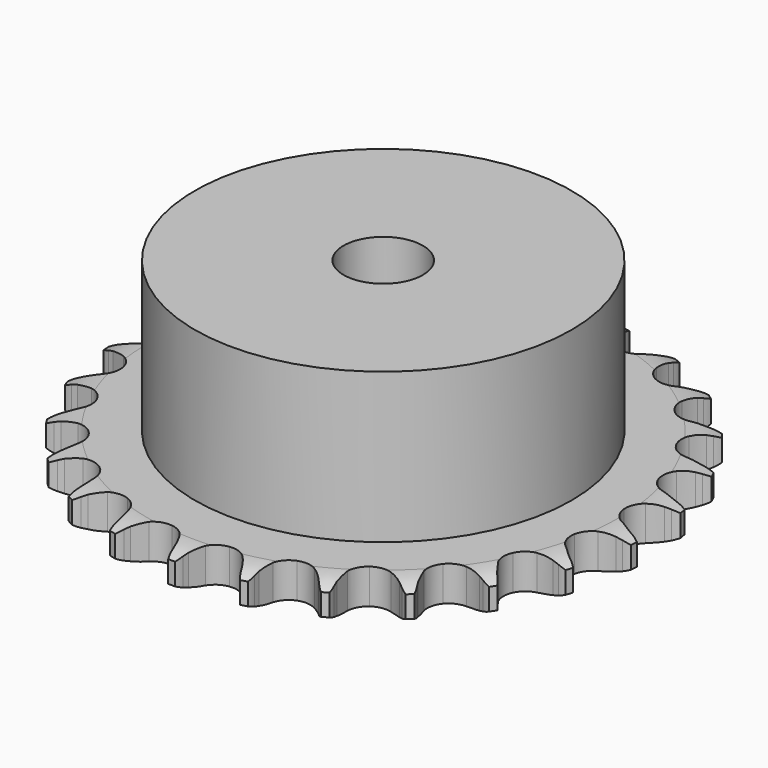
from build123d import *

# Parameters (mm, degrees)
PAD_DEPTH         = 5.3
SKETCH001_R       = 28.5
PAD001_DEPTH      = 28
SKETCH002_R       = 6
POCKET_DEPTH      = 0.001
POCKET_DEPTH_BACK = -28.001


with BuildPart() as part:
    # Sprocket → Pad (new body)
    with BuildSketch(Plane.XY):
        with BuildLine():
            ThreePointArc((-5.119133, 40.522108), (-4.471486, 39.716317), (-3.996424, 38.798134))
            Line((-3.996424, 38.798134), (-3.687726, 38.020039))
            ThreePointArc((-3.687726, 38.020039), (-3.194709, 36.990111), (-2.565145, 36.037499))
            ThreePointArc((-2.565145, 36.037499), (-1.430666, 35.103968), (0, 34.769725))
            ThreePointArc((0, 34.769725), (1.430666, 35.103968), (2.565145, 36.037499))
            ThreePointArc((2.565145, 36.037499), (3.194709, 36.990111), (3.687726, 38.020039))
            Line((3.687726, 38.020039), (3.996424, 38.798134))
            ThreePointArc((3.996424, 38.798134), (4.471486, 39.716317), (5.119133, 40.522108))
            ThreePointArc((5.119133, 40.522108), (5.54604, 39.58057), (5.777835, 38.573089))
            Line((5.777835, 38.573089), (5.88333, 37.74267))
            ThreePointArc((5.88333, 37.74267), (6.104725, 36.62249), (6.477605, 35.54324))
            ThreePointArc((6.477605, 35.54324), (7.344283, 34.356905), (8.646879, 33.677371))
            ThreePointArc((8.646879, 33.677371), (10.115721, 33.64532), (11.446718, 34.267389))
            Line((11.446718, 34.267389), (13.027069, 35.90847))
            ThreePointArc((13.027069, 35.90847), (13.264791, 36.253115), (13.519572, 36.585349))
            ThreePointArc((13.519572, 36.585349), (14.208053, 37.356543), (15.035744, 37.975955))
            ThreePointArc((15.035744, 37.975955), (15.215089, 36.957829), (15.18905, 35.924355))
            Line((15.18905, 35.924355), (15.084715, 35.09379))
            ThreePointArc((15.084715, 35.09379), (15.020577, 33.953744), (15.113344, 32.815669))
            ThreePointArc((15.113344, 32.815669), (15.657764, 31.45107), (16.750443, 30.468943))
            ThreePointArc((16.750443, 30.468943), (18.165168, 30.072613), (19.609051, 30.344133))
            Line((19.609051, 30.344133), (21.547873, 31.540639))
            ThreePointArc((21.547873, 31.540639), (21.863836, 31.815338), (22.193236, 32.073772))
            ThreePointArc((22.193236, 32.073772), (23.051875, 32.649519), (24.007605, 33.043633))
            ThreePointArc((24.007605, 33.043633), (23.928117, 32.012892), (23.645882, 31.018363))
            Line((23.645882, 31.018363), (23.338271, 30.239838))
            ThreePointArc((23.338271, 30.239838), (22.992631, 29.151559), (22.799455, 28.026169))
            ThreePointArc((22.799455, 28.026169), (22.987409, 26.56905), (23.801515, 25.346039))
            ThreePointArc((23.801515, 25.346039), (25.07323, 24.610333), (26.539276, 24.514244))
            Line((26.539276, 24.514244), (28.714744, 25.190994))
            ThreePointArc((28.714744, 25.190994), (29.089096, 25.378485), (29.472418, 25.546882))
            ThreePointArc((29.472418, 25.546882), (30.447263, 25.891007), (31.470979, 26.035058))
            ThreePointArc((31.470979, 26.035058), (31.137654, 25.056468), (30.616957, 24.163372))
            Line((30.616957, 24.163372), (30.125399, 23.485806))
            ThreePointArc((30.125399, 23.485806), (29.519973, 22.517674), (29.052993, 21.475681))
            ThreePointArc((29.052993, 21.475681), (28.872672, 20.017598), (29.35705, 18.630551))
            ThreePointArc((29.35705, 18.630551), (30.40585, 17.601696), (31.80194, 17.144034))
            Line((31.80194, 17.144034), (34.077363, 17.258506))
            ThreePointArc((34.077363, 17.258506), (34.486582, 17.347009), (34.899739, 17.414787))
            ThreePointArc((34.899739, 17.414787), (35.929538, 17.505666), (36.956916, 17.390605))
            ThreePointArc((36.956916, 17.390605), (36.390697, 16.525653), (35.664255, 15.790108))
            Line((35.664255, 15.790108), (35.019636, 15.256074))
            ThreePointArc((35.019636, 15.256074), (34.192466, 14.468921), (33.481025, 13.575797))
            ThreePointArc((33.481025, 13.575797), (32.943758, 12.208367), (33.067974, 10.744436))
            ThreePointArc((33.067974, 10.744436), (33.827958, 9.487079), (35.066372, 8.696602))
            Line((35.066372, 8.696602), (37.298776, 8.241602))
            ThreePointArc((37.298776, 8.241602), (37.717148, 8.225557), (38.134181, 8.188458))
            ThreePointArc((38.134181, 8.188458), (39.154228, 8.020381), (40.120714, 7.653436))
            ThreePointArc((40.120714, 7.653436), (39.357179, 6.956471), (38.470637, 6.424693))
            Line((38.470637, 6.424693), (37.713461, 6.067747))
            ThreePointArc((37.713461, 6.067747), (36.716522, 5.511033), (35.805321, 4.822897))
            ThreePointArc((35.805321, 4.822897), (34.944866, 3.632039), (34.701115, 2.183209))
            ThreePointArc((34.701115, 2.183209), (35.124531, 0.776354), (36.127454, -0.29727))
            Line((36.127454, -0.29727), (38.17657, -1.293151))
            ThreePointArc((38.17657, -1.293151), (38.577807, -1.412737), (38.972512, -1.552383))
            ThreePointArc((38.972512, -1.552383), (39.918713, -1.968854), (40.76358, -2.564627))
            ThreePointArc((40.76358, -2.564627), (39.850705, -3.049812), (38.859767, -3.344409))
            Line((38.859767, -3.344409), (38.037611, -3.501839))
            ThreePointArc((38.037611, -3.501839), (36.933543, -3.793134), (35.879836, -4.233045))
            ThreePointArc((35.879836, -4.233045), (34.75026, -5.172503), (34.153858, -6.515197))
            ThreePointArc((34.153858, -6.515197), (34.2141, -7.983152), (34.918516, -9.272463))
            Line((34.918516, -9.272463), (36.655589, -10.746651))
            ThreePointArc((36.655589, -10.746651), (37.014481, -10.962264), (37.362057, -11.195681))
            ThreePointArc((37.362057, -11.195681), (38.174959, -11.83438), (38.845121, -12.621545))
            ThreePointArc((38.845121, -12.621545), (37.840265, -12.864464), (36.807195, -12.903369))
            Line((36.807195, -12.903369), (35.971718, -12.851391))
            ThreePointArc((35.971718, -12.851391), (34.829894, -12.858964), (33.69989, -13.023008))
            ThreePointArc((33.69989, -13.023008), (32.372168, -13.652038), (31.460588, -14.804229))
            ThreePointArc((31.460588, -14.804229), (31.153872, -16.241048), (31.515518, -17.665033))
            Line((31.515518, -17.665033), (32.831403, -19.5249))
            ThreePointArc((32.831403, -19.5249), (33.125399, -19.822991), (33.404006, -20.135514))
            ThreePointArc((33.404006, -20.135514), (34.032532, -20.956307), (34.485879, -21.885404))
            ThreePointArc((34.485879, -21.885404), (33.452181, -21.870794), (32.441892, -21.651564))
            Line((32.441892, -21.651564), (31.645589, -21.393443))
            ThreePointArc((31.645589, -21.393443), (30.537754, -21.116818), (29.402455, -20.994688))
            ThreePointArc((29.402455, -20.994688), (27.960013, -21.273765), (26.790534, -22.163057))
            ThreePointArc((26.790534, -22.163057), (26.136132, -23.478458), (26.132285, -24.947645))
            Line((26.132285, -24.947645), (26.944299, -27.076327))
            ThreePointArc((26.944299, -27.076327), (27.154926, -27.438167), (27.347059, -27.810159))
            ThreePointArc((27.347059, -27.810159), (27.751716, -28.761473), (27.959763, -29.774124))
            ThreePointArc((27.959763, -29.774124), (26.962174, -29.502902), (26.038146, -29.03931))
            Line((26.038146, -29.03931), (25.331051, -28.591267))
            ThreePointArc((25.331051, -28.591267), (24.326815, -28.047825), (23.257556, -27.647195))
            ThreePointArc((23.257556, -27.647195), (21.791028, -27.558783), (20.437132, -28.129299))
            ThreePointArc((20.437132, -28.129299), (19.476162, -29.240631), (19.107065, -30.662704))
            Line((19.107065, -30.662704), (19.364185, -32.926449))
            ThreePointArc((19.364185, -32.926449), (19.478209, -33.329303), (19.571796, -33.737388))
            ThreePointArc((19.571796, -33.737388), (19.727157, -34.759449), (19.676832, -35.792025))
            ThreePointArc((19.676832, -35.792025), (18.778034, -35.281234), (17.998326, -34.602411))
            Line((17.998326, -34.602411), (17.424871, -33.992596))
            ThreePointArc((17.424871, -33.992596), (16.587333, -33.216484), (15.6513, -32.562526))
            ThreePointArc((15.6513, -32.562526), (14.252832, -32.112181), (12.79959, -32.328073))
            ThreePointArc((12.79959, -32.328073), (11.592433, -33.165507), (10.881277, -34.451112))
            Line((10.881277, -34.451112), (10.567349, -36.707681))
            ThreePointArc((10.567349, -36.707681), (10.577605, -37.126235), (10.566765, -37.544774))
            ThreePointArc((10.566765, -37.544774), (10.463069, -38.573362), (10.157534, -39.560982))
            ThreePointArc((10.157534, -39.560982), (9.414002, -38.842717), (8.827606, -37.991314))
            Line((8.827606, -37.991314), (8.423822, -37.258045))
            ThreePointArc((8.423822, -37.258045), (7.805608, -36.298029), (7.061614, -35.431835))
            ThreePointArc((7.061614, -35.431835), (5.819078, -34.647853), (4.357802, -34.495556))
            ThreePointArc((4.357802, -34.495556), (2.980309, -35.006473), (1.971778, -36.074831))
            Line((1.971778, -36.074831), (1.106527, -38.182435))
            ThreePointArc((1.106527, -38.182435), (1.012371, -38.590389), (0.897785, -38.993083))
            ThreePointArc((0.897785, -38.993083), (0.541547, -39.963568), (0, -40.844177))
            ThreePointArc((0, -40.844177), (-0.541547, -39.963568), (-0.897785, -38.993083))
            Line((-0.897785, -38.993083), (-1.106527, -38.182435))
            ThreePointArc((-1.106527, -38.182435), (-1.466573, -37.098836), (-1.971778, -36.074831))
            ThreePointArc((-1.971778, -36.074831), (-2.980309, -35.006473), (-4.357802, -34.495556))
            ThreePointArc((-4.357802, -34.495556), (-5.819078, -34.647853), (-7.061614, -35.431835))
            Line((-7.061614, -35.431835), (-8.423822, -37.258045))
            ThreePointArc((-8.423822, -37.258045), (-8.616474, -37.629768), (-8.827606, -37.991314))
            ThreePointArc((-8.827606, -37.991314), (-9.414002, -38.842717), (-10.157534, -39.560982))
            ThreePointArc((-10.157534, -39.560982), (-10.463069, -38.573362), (-10.566765, -37.544774))
            Line((-10.566765, -37.544774), (-10.567349, -36.707681))
            ThreePointArc((-10.567349, -36.707681), (-10.646603, -35.568586), (-10.881277, -34.451112))
            ThreePointArc((-10.881277, -34.451112), (-11.592433, -33.165507), (-12.79959, -32.328073))
            ThreePointArc((-12.79959, -32.328073), (-14.252832, -32.112181), (-15.6513, -32.562526))
            Line((-15.6513, -32.562526), (-17.424871, -33.992596))
            ThreePointArc((-17.424871, -33.992596), (-17.703914, -34.30473), (-17.998326, -34.602411))
            ThreePointArc((-17.998326, -34.602411), (-18.778034, -35.281234), (-19.676832, -35.792025))
            ThreePointArc((-19.676832, -35.792025), (-19.727157, -34.759449), (-19.571796, -33.737388))
            Line((-19.571796, -33.737388), (-19.364185, -32.926449))
            ThreePointArc((-19.364185, -32.926449), (-19.157668, -31.803431), (-19.107065, -30.662704))
            ThreePointArc((-19.107065, -30.662704), (-19.476162, -29.240631), (-20.437132, -28.129299))
            ThreePointArc((-20.437132, -28.129299), (-21.791028, -27.558783), (-23.257556, -27.647195))
            Line((-23.257556, -27.647195), (-25.331051, -28.591267))
            ThreePointArc((-25.331051, -28.591267), (-25.678953, -28.824199), (-26.038146, -29.03931))
            ThreePointArc((-26.038146, -29.03931), (-26.962174, -29.502902), (-27.959763, -29.774124))
            ThreePointArc((-27.959763, -29.774124), (-27.751716, -28.761473), (-27.347059, -27.810159))
            Line((-27.347059, -27.810159), (-26.944299, -27.076327))
            ThreePointArc((-26.944299, -27.076327), (-26.464986, -26.039949), (-26.132285, -24.947645))
            ThreePointArc((-26.132285, -24.947645), (-26.136132, -23.478458), (-26.790534, -22.163057))
            ThreePointArc((-26.790534, -22.163057), (-27.960013, -21.273765), (-29.402455, -20.994688))
            Line((-29.402455, -20.994688), (-31.645589, -21.393443))
            ThreePointArc((-31.645589, -21.393443), (-32.040488, -21.532538), (-32.441892, -21.651564))
            ThreePointArc((-32.441892, -21.651564), (-33.452181, -21.870794), (-34.485879, -21.885404))
            ThreePointArc((-34.485879, -21.885404), (-34.032532, -20.956307), (-33.404006, -20.135514))
            Line((-33.404006, -20.135514), (-32.831403, -19.5249))
            ThreePointArc((-32.831403, -19.5249), (-32.109412, -18.640282), (-31.515518, -17.665033))
            ThreePointArc((-31.515518, -17.665033), (-31.153872, -16.241048), (-31.460588, -14.804229))
            ThreePointArc((-31.460588, -14.804229), (-32.372168, -13.652038), (-33.69989, -13.023008))
            Line((-33.69989, -13.023008), (-35.971718, -12.851391))
            ThreePointArc((-35.971718, -12.851391), (-36.388801, -12.887908), (-36.807195, -12.903369))
            ThreePointArc((-36.807195, -12.903369), (-37.840265, -12.864464), (-38.845121, -12.621545))
            ThreePointArc((-38.845121, -12.621545), (-38.174959, -11.83438), (-37.362057, -11.195681))
            Line((-37.362057, -11.195681), (-36.655589, -10.746651))
            ThreePointArc((-36.655589, -10.746651), (-35.736285, -10.069377), (-34.918516, -9.272463))
            ThreePointArc((-34.918516, -9.272463), (-34.2141, -7.983152), (-34.153858, -6.515197))
            ThreePointArc((-34.153858, -6.515197), (-34.75026, -5.172503), (-35.879836, -4.233045))
            Line((-35.879836, -4.233045), (-38.037611, -3.501839))
            ThreePointArc((-38.037611, -3.501839), (-38.450673, -3.433484), (-38.859767, -3.344409))
            ThreePointArc((-38.859767, -3.344409), (-39.850705, -3.049812), (-40.76358, -2.564627))
            ThreePointArc((-40.76358, -2.564627), (-39.918713, -1.968854), (-38.972512, -1.552383))
            Line((-38.972512, -1.552383), (-38.17657, -1.293151))
            ThreePointArc((-38.17657, -1.293151), (-37.117716, -0.865777), (-36.127454, -0.29727))
            ThreePointArc((-36.127454, -0.29727), (-35.124531, 0.776354), (-34.701115, 2.183209))
            ThreePointArc((-34.701115, 2.183209), (-34.944866, 3.632039), (-35.805321, 4.822897))
            Line((-35.805321, 4.822897), (-37.713461, 6.067747))
            ThreePointArc((-37.713461, 6.067747), (-38.096547, 6.236679), (-38.470637, 6.424693))
            ThreePointArc((-38.470637, 6.424693), (-39.357179, 6.956471), (-40.120714, 7.653436))
            ThreePointArc((-40.120714, 7.653436), (-39.154228, 8.020381), (-38.134181, 8.188458))
            Line((-38.134181, 8.188458), (-37.298776, 8.241602))
            ThreePointArc((-37.298776, 8.241602), (-36.166905, 8.392224), (-35.066372, 8.696602))
            ThreePointArc((-35.066372, 8.696602), (-33.827958, 9.487079), (-33.067974, 10.744436))
            ThreePointArc((-33.067974, 10.744436), (-32.943758, 12.208367), (-33.481025, 13.575797))
            Line((-33.481025, 13.575797), (-35.019636, 15.256074))
            ThreePointArc((-35.019636, 15.256074), (-35.348675, 15.514968), (-35.664255, 15.790108))
            ThreePointArc((-35.664255, 15.790108), (-36.390697, 16.525653), (-36.956916, 17.390605))
            ThreePointArc((-36.956916, 17.390605), (-35.929538, 17.505666), (-34.899739, 17.414787))
            Line((-34.899739, 17.414787), (-34.077363, 17.258506))
            ThreePointArc((-34.077363, 17.258506), (-32.943594, 17.122911), (-31.80194, 17.144034))
            ThreePointArc((-31.80194, 17.144034), (-30.40585, 17.601696), (-29.35705, 18.630551))
            ThreePointArc((-29.35705, 18.630551), (-28.872672, 20.017598), (-29.052993, 21.475681))
            Line((-29.052993, 21.475681), (-30.125399, 23.485806))
            ThreePointArc((-30.125399, 23.485806), (-30.379716, 23.818395), (-30.616957, 24.163372))
            ThreePointArc((-30.616957, 24.163372), (-31.137654, 25.056468), (-31.470979, 26.035058))
            ThreePointArc((-31.470979, 26.035058), (-30.447263, 25.891007), (-29.472418, 25.546882))
            Line((-29.472418, 25.546882), (-28.714744, 25.190994))
            ThreePointArc((-28.714744, 25.190994), (-27.650316, 24.777701), (-26.539276, 24.514244))
            ThreePointArc((-26.539276, 24.514244), (-25.07323, 24.610333), (-23.801515, 25.346039))
            ThreePointArc((-23.801515, 25.346039), (-22.987409, 26.56905), (-22.799455, 28.026169))
            Line((-22.799455, 28.026169), (-23.338271, 30.239838))
            ThreePointArc((-23.338271, 30.239838), (-23.501887, 30.625224), (-23.645882, 31.018363))
            ThreePointArc((-23.645882, 31.018363), (-23.928117, 32.012892), (-24.007605, 33.043633))
            ThreePointArc((-24.007605, 33.043633), (-23.051875, 32.649519), (-22.193236, 32.073772))
            Line((-22.193236, 32.073772), (-21.547873, 31.540639))
            ThreePointArc((-21.547873, 31.540639), (-20.619666, 30.875618), (-19.609051, 30.344133))
            ThreePointArc((-19.609051, 30.344133), (-18.165168, 30.072613), (-16.750443, 30.468943))
            ThreePointArc((-16.750443, 30.468943), (-15.657764, 31.45107), (-15.113344, 32.815669))
            Line((-15.113344, 32.815669), (-15.084715, 35.09379))
            ThreePointArc((-15.084715, 35.09379), (-15.147349, 35.507758), (-15.18905, 35.924355))
            ThreePointArc((-15.18905, 35.924355), (-15.215089, 36.957829), (-15.035744, 37.975955))
            ThreePointArc((-15.035744, 37.975955), (-14.208053, 37.356543), (-13.519572, 36.585349))
            Line((-13.519572, 36.585349), (-13.027069, 35.90847))
            ThreePointArc((-13.027069, 35.90847), (-12.293408, 35.033506), (-11.446718, 34.267389))
            ThreePointArc((-11.446718, 34.267389), (-10.115721, 33.64532), (-8.646879, 33.677371))
            ThreePointArc((-8.646879, 33.677371), (-7.344283, 34.356905), (-6.477605, 35.54324))
            Line((-6.477605, 35.54324), (-5.88333, 37.74267))
            ThreePointArc((-5.88333, 37.74267), (-5.841047, 38.159209), (-5.777835, 38.573089))
            ThreePointArc((-5.777835, 38.573089), (-5.54604, 39.58057), (-5.119133, 40.522108))
        make_face()
    extrude(amount=PAD_DEPTH)

    # Sketch → Groove (revolve, cut)
    with BuildSketch(Plane.XZ):
        with BuildLine():
            Line((35.641101, 0), (40, 0))
            Line((44.358899, 0), (40, 0))
            Line((44.358899, 5.3), (44.358899, 0))
            Line((40, 5.3), (44.358899, 5.3))
            Line((35.641101, 5.3), (40, 5.3))
            ThreePointArc((40, 4.3), (37.877169, 5.046794), (35.641101, 5.3))
            Line((40, 1), (40, 4.3))
            ThreePointArc((35.641101, 0), (37.877169, 0.253206), (40, 1))
        make_face()
    revolve(axis=Axis((0, 0, 0), (0, 0, 1)), mode=Mode.SUBTRACT)

    # Sketch001 → Pad001 (join)
    with BuildSketch(Plane.XY):
        Circle(SKETCH001_R)
    extrude(amount=PAD001_DEPTH)

    # Sketch002 → Pocket (cut, two sides)
    with BuildSketch(Plane.XY) as pocket_sk:
        Circle(SKETCH002_R)
    extrude(amount=-POCKET_DEPTH, mode=Mode.SUBTRACT)
    extrude(pocket_sk.sketch, amount=-POCKET_DEPTH_BACK, mode=Mode.SUBTRACT)


solid = part.part
